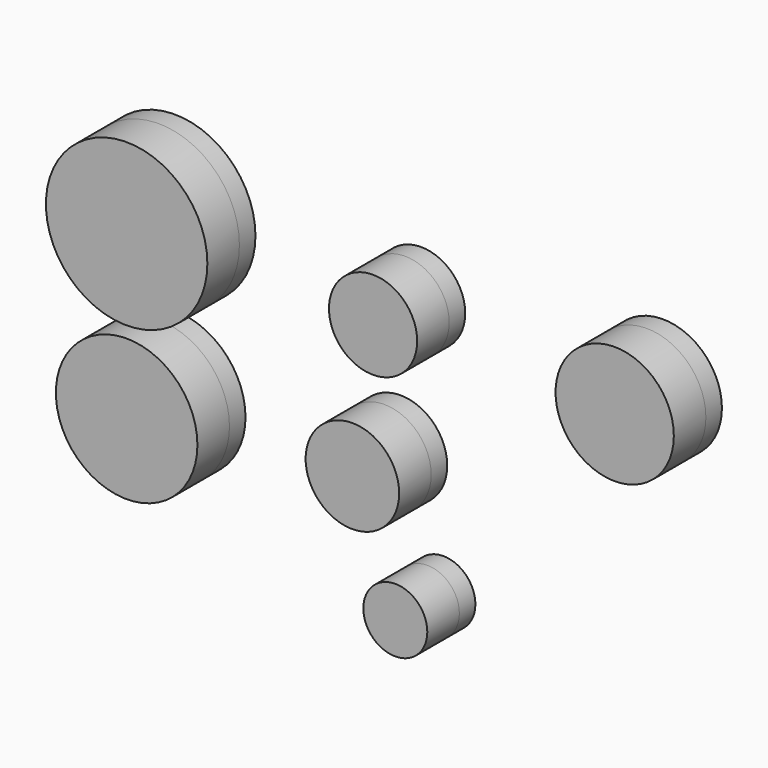
from build123d import *

# Parameters (mm, degrees)
F0_R     = 12.79036
F0_R_2   = 6.985614
F0_R_3   = 7.408825
F0_R_4   = 9.371506
F1_DEPTH = 3.175
F0_R_5   = 11.214485
F0_R_6   = 5.069543
F2_DEPTH = 3.175
F3_DEPTH = 6.35


with BuildPart() as f1:
    # F0 (on Front) → F1 (new body, symmetric)
    with BuildSketch(Plane.XZ):
        with Locations((-57.308979, 53.02655)):
            Circle(F0_R)
        with Locations((-18.263301, 53.02655)):
            Circle(F0_R_2)
        with Locations((-21.538099, 30.858679)):
            Circle(F0_R_3)
        with Locations((20.026654, 53.02655)):
            Circle(F0_R_4)
    extrude(amount=F1_DEPTH, both=True)


with BuildPart() as f2:
    # F0 (on Front) → F2 (new body, symmetric)
    with BuildSketch(Plane.XZ):
        with Locations((-57.308979, 53.02655)):
            Circle(F0_R)
        with Locations((-21.538099, 30.858679)):
            Circle(F0_R_3)
        with Locations((-18.263301, 53.02655)):
            Circle(F0_R_2)
        with Locations((20.026654, 53.02655)):
            Circle(F0_R_4)
        with Locations((-57.308979, 27.208291)):
            Circle(F0_R_5)
        with Locations((-14.736595, 12.973242)):
            Circle(F0_R_6)
    extrude(amount=F2_DEPTH, both=True)


with BuildPart() as f3:
    # F0 (on Front) → F3 (new body)
    with BuildSketch(Plane.XZ):
        with Locations((-57.308979, 53.02655)):
            Circle(F0_R)
        with Locations((-21.538099, 30.858679)):
            Circle(F0_R_3)
        with Locations((-18.263301, 53.02655)):
            Circle(F0_R_2)
        with Locations((20.026654, 53.02655)):
            Circle(F0_R_4)
        with Locations((-57.308979, 27.208291)):
            Circle(F0_R_5)
        with Locations((-14.736595, 12.973242)):
            Circle(F0_R_6)
    extrude(amount=F3_DEPTH)


solid = Compound([f1.part, f2.part, f3.part])
